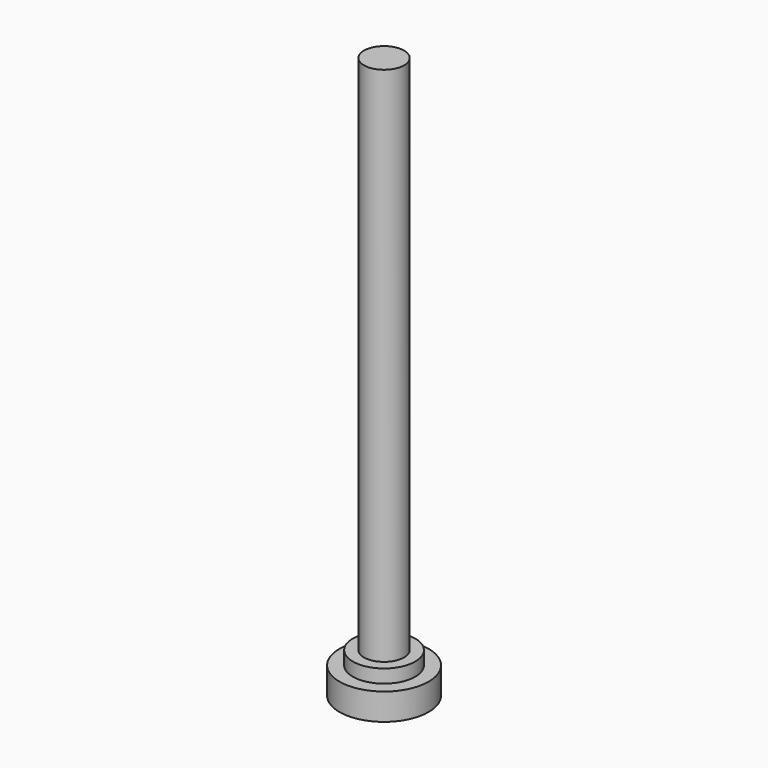
from build123d import *

# Parameters (mm, degrees)
F0_R     = 2.8575
F1_DEPTH = 76.2
F0_R_2   = 4.445
F2_DEPTH = 1.905
F0_R_3   = 6.35
F3_DEPTH = 3.81


with BuildPart() as f1:
    # F0 (on Top) → F1 (new body)
    with BuildSketch(Plane.XY):
        Circle(F0_R)
    extrude(amount=F1_DEPTH)

    # F0 (on Top) → F2 (join, symmetric)
    with BuildSketch(Plane.XY):
        Circle(F0_R_2)
        Circle(F0_R, mode=Mode.SUBTRACT)
    extrude(amount=F2_DEPTH, both=True)

    # F0 (on Top) → F3 (join)
    with BuildSketch(Plane.XY):
        Circle(F0_R_3)
        Circle(F0_R_2, mode=Mode.SUBTRACT)
    extrude(amount=-F3_DEPTH)


solid = f1.part
